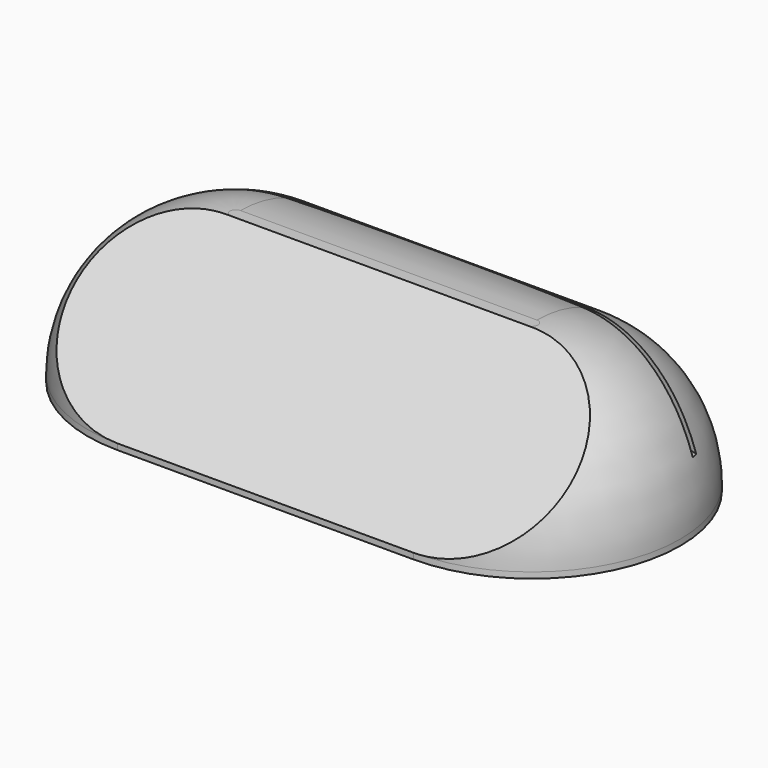
from build123d import *

# Parameters (mm, degrees)
PAD_DEPTH       = 25
FILLET_R        = 24
POCKET_DEPTH    = 100
POCKET001_DEPTH = 15


with BuildPart() as part:
    # Sketch → Pad (new body)
    with BuildSketch(Plane.XY):
        with BuildLine():
            ThreePointArc((-25, 25), (-50, 0), (-25, -25))
            Line((-25, -25), (25, -25))
            ThreePointArc((25, -25), (50, 0), (25, 25))
            Line((-25, 25), (25, 25))
        make_face()
    extrude(amount=PAD_DEPTH)

    # Fillet
    fillet_edges = [part.edges().sort_by_distance(p)[0] for p in [
        (0, 25, 25),
    ]]
    fillet(fillet_edges, radius=FILLET_R)

    # Sketch001 → Pocket (cut)
    with BuildSketch(Plane.YZ.offset(50)):
        Polygon((-25, 1), (0, 26), (-25, 26), align=None)
    extrude(amount=-POCKET_DEPTH, mode=Mode.SUBTRACT)

    # Sketch002 → Pocket001 (cut)
    with BuildSketch(Plane.XY.offset(25)):
        with BuildLine():
            Line((-50, 5), (-50, 6))
            add(Edge.make_bspline(
                [(-50, 6), (0, 21), (50, 6)],
                knots=[0, 0, 0, 1, 1, 1], degree=2))
            Line((50, 6), (50, 5))
            add(Edge.make_bspline(
                [(-50, 5), (0, 20), (50, 5)],
                knots=[0, 0, 0, 1, 1, 1], degree=2))
        make_face()
    extrude(amount=-POCKET001_DEPTH, mode=Mode.SUBTRACT)


solid = part.part
